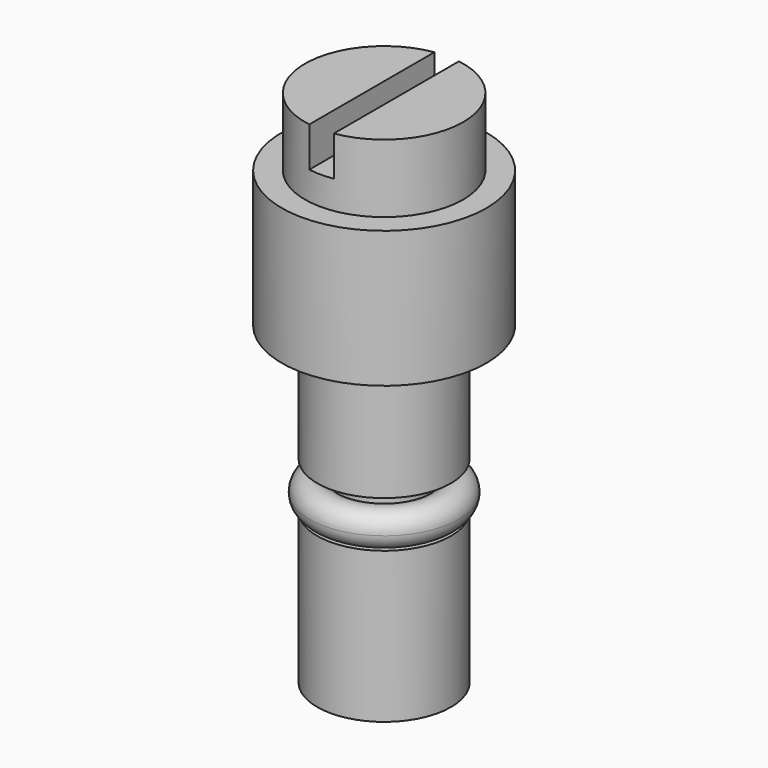
from build123d import *

# Parameters (mm, degrees)
F2_W     = 1.143
F2_H     = 9.525
F3_DEPTH = 1.8542
F4_R     = 0.8001


with BuildPart() as f1:
    # F0 (on Front) → F1 (revolve)
    with BuildSketch(Plane.XZ):
        Polygon((0, 24.1554), (0, 0), (3.1115, 0), (3.1115, 7.0104), (1.8542, 7.0104), (1.8542, 9.1694), (3.1115, 9.1694), (3.1115, 14.6304), (4.7625, 14.6304), (4.7625, 20.9804), (3.683, 20.9804), (3.683, 24.1554), align=None)
    revolve(axis=Axis((0, 0, 13.226326), (0, 0, 1)))

    # F2 (on face) → F3 (cut)
    with BuildSketch(Plane.XY.offset(24.1554)):
        Rectangle(F2_W, F2_H)
    extrude(amount=-F3_DEPTH, mode=Mode.SUBTRACT)

    # F4 (on Front) → F5 (revolve)
    with BuildSketch(Plane.XZ):
        with Locations((2.667, 7.8105)):
            Circle(F4_R)
    revolve(axis=Axis((0, 0, 11.601659), (0, 0, 1)))


solid = f1.part
